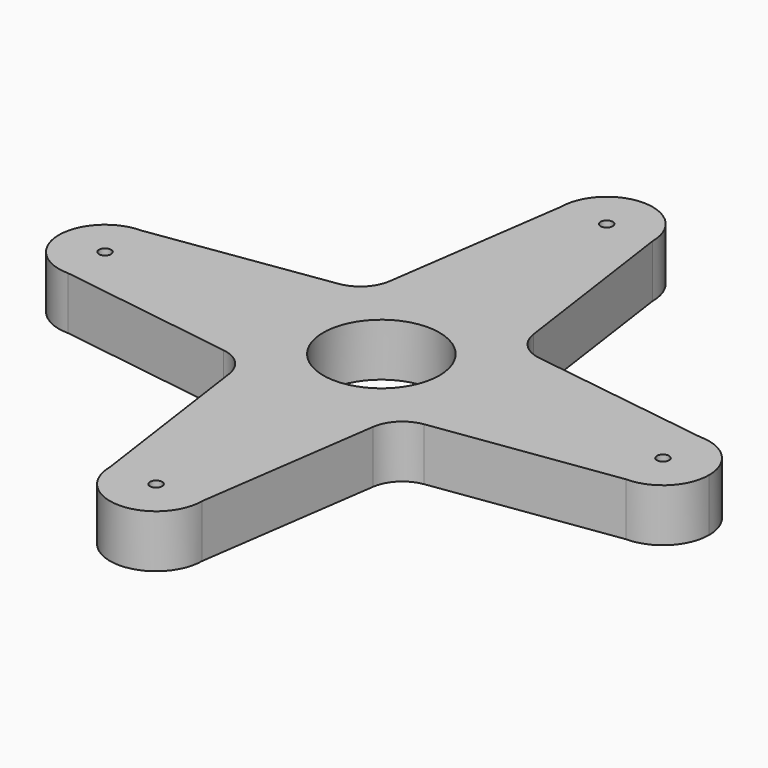
from build123d import *

# Parameters (mm, degrees)
F0_R     = 11
F0_R_2   = 1.15
F1_DEPTH = 10


with BuildPart() as f1:
    # F0 (on Top) → F1 (new body)
    with BuildSketch(Plane.XY):
        with BuildLine():
            Line((13.615915, 19.008034), (8.728614, 53.354566))
            ThreePointArc((8.728614, 53.354566), (0, 44.625952), (-8.728614, 53.354566))
            Line((-8.728614, 53.354566), (-13.615915, 19.008034))
            ThreePointArc((-13.615915, 19.008034), (-15.412461, 15.412461), (-19.008034, 13.615915))
            Line((-19.008034, 13.615915), (-52.354566, 8.728614))
            ThreePointArc((-52.354566, 8.728614), (-46.182504, 6.172062), (-43.625952, 0))
            ThreePointArc((-43.625952, 0), (-46.182504, -6.172062), (-52.354566, -8.728614))
            Line((-52.354566, -8.728614), (-19.008034, -13.615915))
            ThreePointArc((-19.008034, -13.615915), (-15.412461, -15.412461), (-13.615915, -19.008034))
            Line((-13.615915, -19.008034), (-8.728614, -53.354566))
            ThreePointArc((-8.728614, -53.354566), (0, -44.625952), (8.728614, -53.354566))
            Line((8.728614, -53.354566), (13.615915, -19.008034))
            ThreePointArc((13.615915, -19.008034), (15.412461, -15.412461), (19.008034, -13.615915))
            Line((19.008034, -13.615915), (53.354566, -8.728614))
            ThreePointArc((53.354566, -8.728614), (44.625952, 0), (53.354566, 8.728614))
            Line((53.354566, 8.728614), (19.008034, 13.615915))
            ThreePointArc((19.008034, 13.615915), (15.412461, 15.412461), (13.615915, 19.008034))
        make_face()
        Circle(F0_R, mode=Mode.SUBTRACT)
        with BuildLine():
            ThreePointArc((-8.728614, -53.354566), (0, -62.08318), (8.728614, -53.354566))
            ThreePointArc((8.728614, -53.354566), (0, -44.625952), (-8.728614, -53.354566))
        make_face()
        with Locations((0, -53.354566)):
            Circle(F0_R_2, mode=Mode.SUBTRACT)
        with BuildLine():
            ThreePointArc((-43.625952, 0), (-46.182504, 6.172062), (-52.354566, 8.728614))
            ThreePointArc((-52.354566, 8.728614), (-61.08318, 0), (-52.354566, -8.728614))
            ThreePointArc((-52.354566, -8.728614), (-46.182504, -6.172062), (-43.625952, 0))
        make_face()
        with Locations((-52.354566, 0)):
            Circle(F0_R_2, mode=Mode.SUBTRACT)
        with BuildLine():
            ThreePointArc((-8.728614, 53.354566), (0, 44.625952), (8.728614, 53.354566))
            ThreePointArc((8.728614, 53.354566), (0, 62.08318), (-8.728614, 53.354566))
        make_face()
        with Locations((0, 53.354566)):
            Circle(F0_R_2, mode=Mode.SUBTRACT)
        with BuildLine():
            ThreePointArc((62.08318, 0), (59.526628, 6.172062), (53.354566, 8.728614))
            ThreePointArc((53.354566, 8.728614), (44.625952, 0), (53.354566, -8.728614))
            ThreePointArc((53.354566, -8.728614), (59.526628, -6.172062), (62.08318, 0))
        make_face()
        with Locations((53.354566, 0)):
            Circle(F0_R_2, mode=Mode.SUBTRACT)
    extrude(amount=F1_DEPTH)


solid = f1.part
